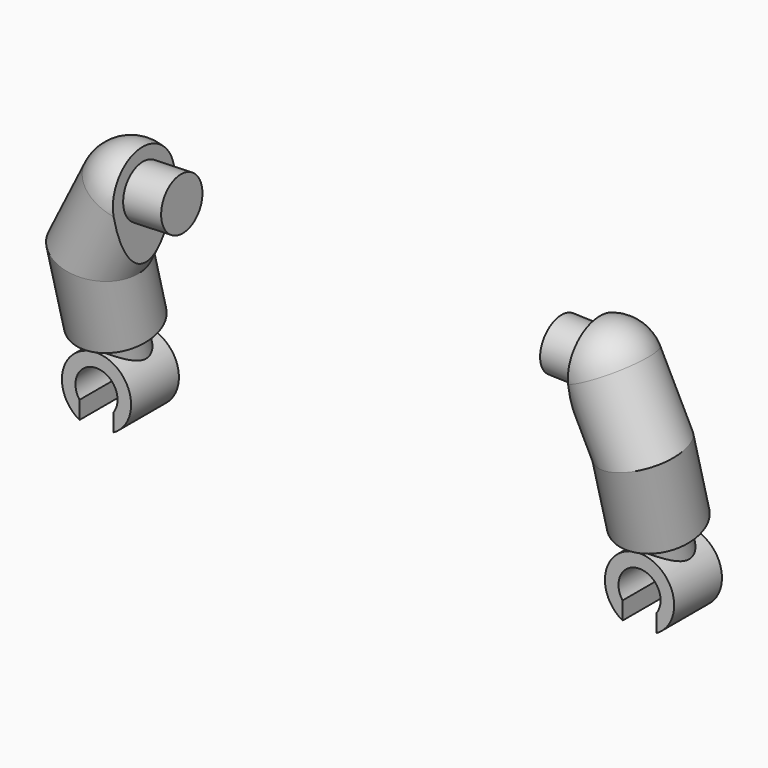
from build123d import *

# Parameters (mm, degrees)
F1_DEPTH  = 4.4
F6_R      = 3
F10_R     = 2
F11_DEPTH = 3
F13_R     = 1.8
F16_DEPTH = 25
F17_R     = 1.9
F18_DEPTH = 2.8


with BuildPart() as f1:
    # F0 (on Front) → F1 (new body)
    with BuildSketch(Plane.XZ):
        with BuildLine():
            Line((1.25, -0.916515139), (1.25, -2.2226110771))
            ThreePointArc((1.25, -2.2226110771), (0, 2.55), (-1.25, -2.2226110771))
            Line((-1.25, -2.2226110771), (-1.25, -0.916515139))
            ThreePointArc((-1.25, -0.916515139), (0, 1.55), (1.25, -0.916515139))
        make_face()
    extrude(amount=F1_DEPTH)

    # F13 (on offset) → F14 (join, up to the next surface of F1)
    with BuildSketch(Plane(origin=(0, -1.90378939, 7.1050387303), x_dir=(1, 0, 0), z_dir=(0, 0.2588190451, -0.9659258263))):
        with Locations((0, 1.5472061438)):
            Circle(F13_R)
    extrude(until=Until.NEXT)


with BuildPart() as f7:
    # F7: sweep along a path in F7_path
    with BuildLine(Plane(origin=(0, -2.6735824366, 4), x_dir=(-0.8814124167, -0.4723474905, 0), z_dir=(0.4597008434, -0.8578134519, -0.2298504217))) as f7_path:
        Line((0, 0), (0.6737647565, -5.4699144883))
        Line((0.6737647565, -5.4699144883), (-1.3534838018, -10.1964632591))
    # F6 (on line) → F7 (sweep)
    with BuildSketch(Plane(origin=(6.0293851278, 0, 12.0587702557), x_dir=(0.894427191, 0, -0.4472135955), z_dir=(0.4472135955, 0, 0.894427191))):
        with Locations((-4.16957933, -4.1)):
            Circle(F6_R)
    sweep(path=f7_path.line, transition=Transition.RIGHT)

    # F8 (on face) → F9 (revolve)
    with BuildSketch(Plane(origin=(6.0293851278, 0, 12.0587702557), x_dir=(0.894427191, 0, -0.4472135955), z_dir=(0.4472135955, 0, 0.894427191))):
        with BuildLine():
            Line((-1.16957933, -4.1), (-7.16957933, -4.1))
            ThreePointArc((-7.16957933, -4.1), (-4.16957933, -7.1), (-1.16957933, -4.1))
        make_face()
    revolve(axis=Axis((2.3, -4.1, 13.9234628196), (0.894427191, 0, -0.4472135955)))

    # F10 (on face) → F11 (cut)
    with BuildSketch(Plane(origin=(0, -1.1790960637, 4.4004464167), x_dir=(1, 0, 0), z_dir=(0, 0.2588190451, -0.9659258263))):
        with Locations((0, 1.5472061438)):
            Circle(F10_R)
    extrude(amount=-F11_DEPTH, mode=Mode.SUBTRACT)

    # F15 (on Front) → F16 (cut)
    with BuildSketch(Plane.XZ):
        Polygon((19.7431911525, 6.4305428985), (14.3870584792, 19.6048300817), (3.1383610708, 17.2138456373), (3.6037557404, 3), align=None)
    extrude(amount=F16_DEPTH, mode=Mode.SUBTRACT)

    # F17 (on face) → F18 (join)
    with BuildSketch(Plane(origin=(3.6980182798, 0, 0.1210817987), x_dir=(0, 1, 0), z_dir=(0.9994644, 0, 0.0327248104))):
        with Locations((-4.1, 13.8407383482)):
            Circle(F17_R)
    extrude(amount=F18_DEPTH)


with BuildPart() as f20_1:
    # F20: instance of F7
    add(f7.part.mirror(Plane.YZ.offset(20)))


with BuildPart() as f20_2:
    # F20: instance of F1
    add(f1.part.mirror(Plane.YZ.offset(20)))


solid = Compound([f1.part, f7.part, f20_1.part, f20_2.part])
